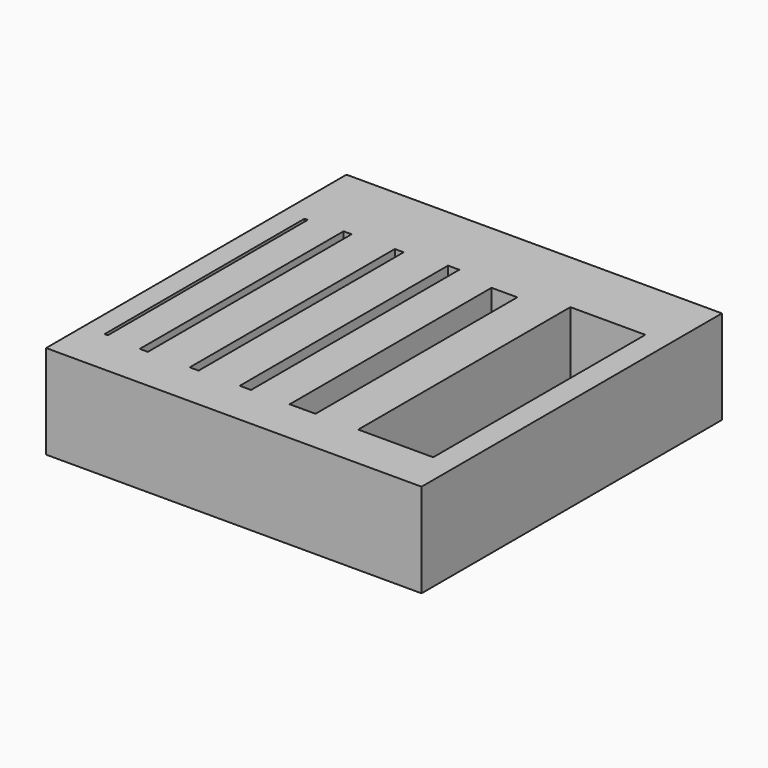
from build123d import *

# Parameters (mm, degrees)
F0_W     = 40
F0_H     = 40
F1_DEPTH = 10
F2_W     = 0.34347
F2_H     = 26.618973
F2_W_2   = 0.858677
F2_H_2   = 27.134179
F2_W_3   = 0.944544
F2_H_3   = 27.305915
F2_W_4   = 1.202146
F2_H_4   = 27.735254
F2_W_5   = 2.747765
F2_H_5   = 26.876577
F2_W_6   = 7.985693
F2_H_6   = 28.25046
F3_DEPTH = 25


with BuildPart() as f1:
    # F0 (on Top) → F1 (new body)
    with BuildSketch(Plane.XY):
        Rectangle(F0_W, F0_H)
    extrude(amount=F1_DEPTH)

    # F2 (on face) → F3 (cut)
    with BuildSketch(Plane.XY.offset(10)):
        with Locations((-17.594586, -1.683472)):
            Rectangle(F2_W, F2_H)
        with Locations((-13.387071, -1.683473)):
            Rectangle(F2_W_2, F2_H_2)
        with Locations((-8.020342, -1.597606)):
            Rectangle(F2_W_3, F2_H_3)
        with Locations((-2.567746, -1.382936)):
            Rectangle(F2_W_4, F2_H_4)
        with Locations((3.528856, -1.812275)):
            Rectangle(F2_W_5, F2_H_5)
        with Locations((13.446573, -1.125333)):
            Rectangle(F2_W_6, F2_H_6)
    extrude(amount=-F3_DEPTH, mode=Mode.SUBTRACT)


solid = f1.part
